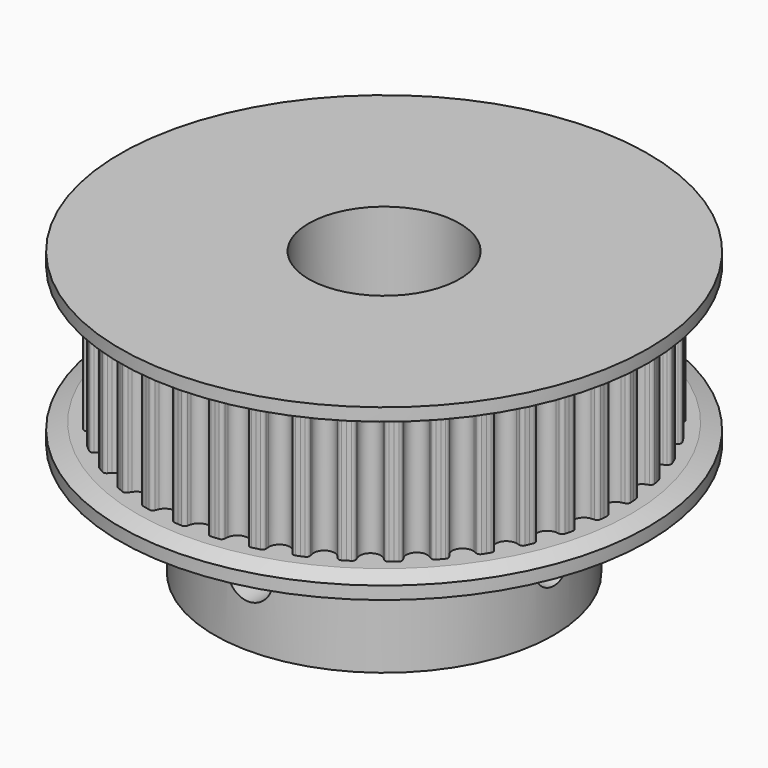
from build123d import *

# Parameters (mm, degrees)
F4_DEPTH  = 3.5
F5_COUNT  = 40
F6_W      = 9
F6_H      = 6
F9_D      = 8
F12_D     = 2.4
F12_DEPTH = 14.001
F13_D     = 2.4
F13_DEPTH = 14.001


with BuildPart() as f4:
    # F3 (on Top) → F4 (new body, symmetric)
    with BuildSketch(Plane.XY):
        with BuildLine():
            Line((0.9201993011, 11.6922407183), (0.9790436229, 12.4399287186))
            ThreePointArc((0.9790436229, 12.4399287186), (0.8763792199, 12.4475825928), (0.7736551653, 12.4543892113))
            ThreePointArc((0.7736551653, 12.4543892113), (0.6502855924, 12.4178134778), (0.5795453421, 12.3103255587))
            ThreePointArc((0.5795453421, 12.3103255587), (0.5581698728, 12.2232687003), (0.5352371, 12.1366090488))
            ThreePointArc((0.5352371, 12.1366090488), (0.3365698656, 11.842095407), (0, 11.7283954474))
            ThreePointArc((0, 11.7283954474), (-0.3365698656, 11.842095407), (-0.5352371, 12.1366090488))
            ThreePointArc((-0.5352371, 12.1366090488), (-0.5581698728, 12.2232687003), (-0.5795453421, 12.3103255587))
            ThreePointArc((-0.5795453421, 12.3103255587), (-0.6502855924, 12.4178134778), (-0.7736551653, 12.4543892113))
            ThreePointArc((-0.7736551653, 12.4543892113), (-0.8763792199, 12.4475825928), (-0.9790436229, 12.4399287186))
            Line((-0.9790436229, 12.4399287186), (-0.9201993011, 11.6922407183))
            Line((-0.9201993011, 11.6922407183), (0, 0))
            Line((0, 0), (0.9201993011, 11.6922407183))
        make_face()
        with BuildLine():
            Line((0.9201993011, 11.6922407183), (0.9790436229, 12.4399287186))
            ThreePointArc((0.9790436229, 12.4399287186), (0.8763792199, 12.4475825928), (0.7736551653, 12.4543892113))
            ThreePointArc((0.7736551653, 12.4543892113), (0.6502855924, 12.4178134778), (0.5795453421, 12.3103255587))
            ThreePointArc((0.5795453421, 12.3103255587), (0.5581698728, 12.2232687003), (0.5352371, 12.1366090488))
            ThreePointArc((0.5352371, 12.1366090488), (0.3365698656, 11.842095407), (0, 11.7283954474))
            ThreePointArc((0, 11.7283954474), (-0.3365698656, 11.842095407), (-0.5352371, 12.1366090488))
            ThreePointArc((-0.5352371, 12.1366090488), (-0.5581698728, 12.2232687003), (-0.5795453421, 12.3103255587))
            ThreePointArc((-0.5795453421, 12.3103255587), (-0.6502855924, 12.4178134778), (-0.7736551653, 12.4543892113))
            ThreePointArc((-0.7736551653, 12.4543892113), (-0.8763792199, 12.4475825928), (-0.9790436229, 12.4399287186))
            Line((-0.9790436229, 12.4399287186), (-0.9201993011, 11.6922407183))
            Line((-0.9201993011, 11.6922407183), (0, 0))
            Line((0, 0), (0.9201993011, 11.6922407183))
        make_face()
        with BuildLine():
            Line((0.9201993011, 11.6922407183), (0.9790436229, 12.4399287186))
            ThreePointArc((0.9790436229, 12.4399287186), (0.8763792199, 12.4475825928), (0.7736551653, 12.4543892113))
            ThreePointArc((0.7736551653, 12.4543892113), (0.6502855924, 12.4178134778), (0.5795453421, 12.3103255587))
            ThreePointArc((0.5795453421, 12.3103255587), (0.5581698728, 12.2232687003), (0.5352371, 12.1366090488))
            ThreePointArc((0.5352371, 12.1366090488), (0.3365698656, 11.842095407), (0, 11.7283954474))
            ThreePointArc((0, 11.7283954474), (-0.3365698656, 11.842095407), (-0.5352371, 12.1366090488))
            ThreePointArc((-0.5352371, 12.1366090488), (-0.5581698728, 12.2232687003), (-0.5795453421, 12.3103255587))
            ThreePointArc((-0.5795453421, 12.3103255587), (-0.6502855924, 12.4178134778), (-0.7736551653, 12.4543892113))
            ThreePointArc((-0.7736551653, 12.4543892113), (-0.8763792199, 12.4475825928), (-0.9790436229, 12.4399287186))
            Line((-0.9790436229, 12.4399287186), (-0.9201993011, 11.6922407183))
            Line((-0.9201993011, 11.6922407183), (0, 0))
            Line((0, 0), (0.9201993011, 11.6922407183))
        make_face()
    extrude(amount=F4_DEPTH, both=True)

    # F5: F4 ×40 about axis
    f5_axis = Axis((0, 0, 0), (0, 0, -1))


with BuildPart() as f4_1:
    add(f4.part)
    for i in range(1, F5_COUNT):
        add(f4.part.rotate(f5_axis, i * 360 / F5_COUNT))

    # F6 (on Front) → F7 (revolve)
    with BuildSketch(Plane.XZ):
        Polygon((0, 4.5), (0, 3.5), (13.1083954474, 3.5), (14, 3.8245175179), (14, 4.5), align=None)
        Polygon((13.1083954474, -3.5), (0, -3.5), (0, -4.5), (9, -4.5), (14, -4.5), (14, -3.8245175179), align=None)
        with Locations((4.5, -7.5)):
            Rectangle(F6_W, F6_H)
    revolve(axis=Axis((0, 0, -7.5), (0, 0, 1)))

    # F9 (through all)
    with Locations(Plane(origin=(0, 0, -10.5), x_dir=(1, 0, 0), z_dir=(0, 0, -1))):
        with Locations((0, 0)):
            Hole(F9_D / 2)

    # F12 (through all, one way)
    with BuildSketch(Plane(origin=(0, 0, 0), x_dir=(1, 0, 0), z_dir=(0, 1, 0))):
        with Locations((0, 7)):
            Circle(F12_D / 2)
    extrude(amount=-F12_DEPTH, mode=Mode.SUBTRACT)

    # F13 (through all, one way)
    with BuildSketch(Plane(origin=(0, 0, 0), x_dir=(0, 1, 0), z_dir=(-1, 0, 0))):
        with Locations((0, 7)):
            Circle(F13_D / 2)
    extrude(amount=-F13_DEPTH, mode=Mode.SUBTRACT)


solid = f4_1.part
